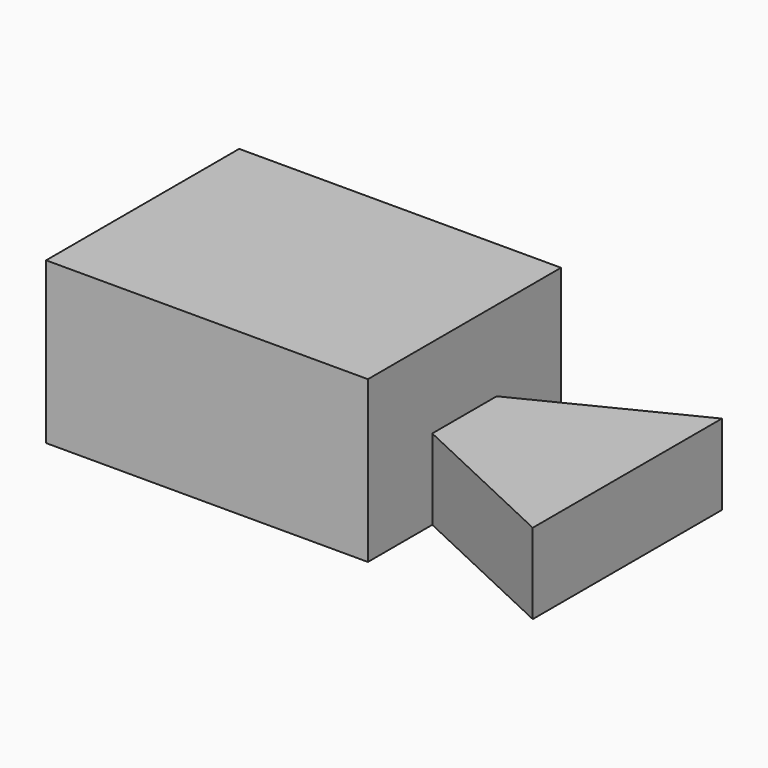
from build123d import *

# Parameters (mm, degrees)
F0_W     = 101.6
F0_H     = 50.8
F1_DEPTH = 76.2
F2_W     = 76.2
F2_H     = 25.4
F3_DEPTH = 50.8
F5_DEPTH = 25.4
F7_DEPTH = 25.4


with BuildPart() as f1:
    # F0 (on Front) → F1 (new body)
    with BuildSketch(Plane.XZ):
        with Locations((-24.98975, 25.4)):
            Rectangle(F0_W, F0_H)
    extrude(amount=F1_DEPTH)

    # F2 (on face) → F3 (join)
    with BuildSketch(Plane.YZ.offset(25.81025)):
        with Locations((-38.1, 12.7)):
            Rectangle(F2_W, F2_H)
    extrude(amount=F3_DEPTH)

    # F4 (on face) → F5 (cut)
    with BuildSketch(Plane.XY.offset(25.4)):
        Polygon((25.81025, -50.8), (25.81025, -76.2), (76.61025, -76.2), (76.61025, -74.655533), align=None)
    extrude(amount=-F5_DEPTH, mode=Mode.SUBTRACT)

    # F6 (on face) → F7 (cut)
    with BuildSketch(Plane.XY.offset(25.4)):
        Polygon((25.81025, 0), (25.81025, -25.4), (76.61025, 0), align=None)
    extrude(amount=-F7_DEPTH, mode=Mode.SUBTRACT)


solid = f1.part
